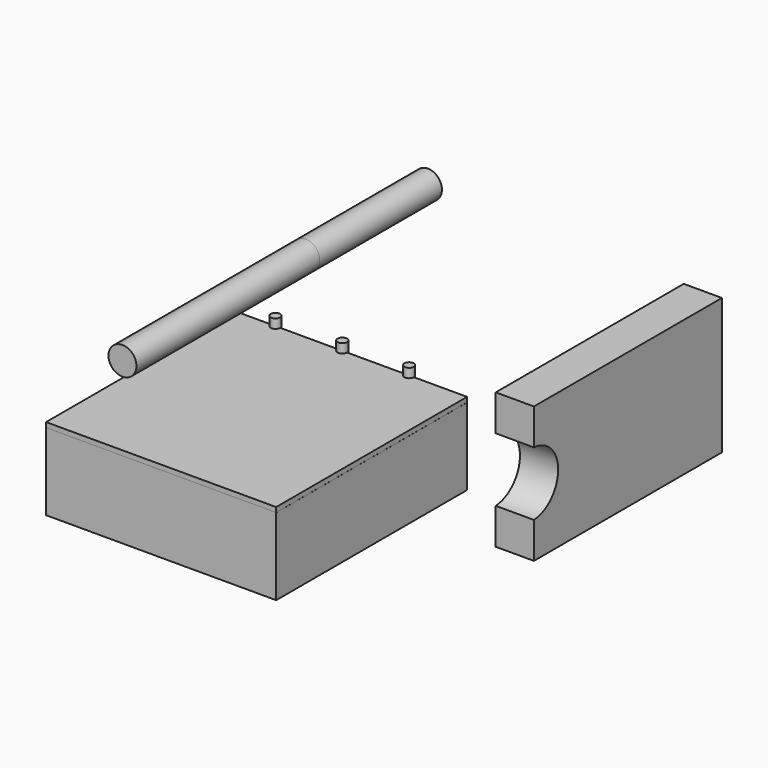
from build123d import *

# Parameters (mm, degrees)
F0_R      = 12.7
F1_DEPTH  = 152.4
F2_W      = 35.1061299443
F2_H      = 23.4181114012
F2_H_2    = 0.2155452967
F3_DEPTH  = 203.2
F4_R      = 37.1999854541
F5_DEPTH  = 609.6
F6_R      = 37.1999854541
F7_DEPTH  = 406.4
F9_DEPTH  = 635
F8_W      = 612.1351420879
F8_H      = 12.8926187754
F10_DEPTH = 635
F12_DEPTH = 101.6


with BuildPart() as f1:
    # F0 (on Top) → F1 (new body)
    with BuildSketch(Plane.XY):
        with Locations((-177.8, 0)):
            Circle(F0_R)
    extrude(amount=F1_DEPTH)


with BuildPart() as f1b:
    # F0 (on Top) → F1, piece 2 (new body)
    with BuildSketch(Plane.XY):
        with Locations((177.8, 0)):
            Circle(F0_R)
    extrude(amount=F1_DEPTH)


with BuildPart() as f1c:
    # F0 (on Top) → F1, piece 3 (new body)
    with BuildSketch(Plane.XY):
        Circle(F0_R)
    extrude(amount=F1_DEPTH)


with BuildPart() as f3:
    # F2 (on Right) → F3 (new body, symmetric)
    with BuildSketch(Plane.YZ):
        Polygon((31.75, 0), (-31.75, 0), (-31.75, -3.81), (-17.0204080641, -3.81), (18.0857218802, -3.81), (31.75, -3.81), align=None)
        with Locations((0.532656908, -15.5190557006)):
            Rectangle(F2_W, F2_H)
        with Locations((0.532656908, -27.3358840495)):
            Rectangle(F2_W, F2_H_2)
        Polygon((-17.0204080641, -27.4436566979), (-17.0204080641, -27.2281114012), (-31.75, -27.2281114012), (-31.75, -31.2200188637), (31.75, -31.2200188637), (31.75, -27.2281114012), (18.0857218802, -27.2281114012), (18.0857218802, -27.4436566979), align=None)
    extrude(amount=F3_DEPTH, both=True)


with BuildPart() as f5:
    # F4 (on Front) → F5 (new body)
    with BuildSketch(Plane.XZ):
        with Locations((-97.2021073103, 320.70723176)):
            Circle(F4_R)
    extrude(amount=F5_DEPTH)


with BuildPart() as f7:
    # F6 (on face) → F7 (new body)
    with BuildSketch(Plane(origin=(0, 0, 0), x_dir=(-1, 0, 0), z_dir=(0, 1, 0))):
        with Locations((97.2021073103, 320.70723176)):
            Circle(F6_R)
    extrude(amount=F7_DEPTH)


with BuildPart() as f9:
    # F8 (on Front) → F9 (new body)
    with BuildSketch(Plane.XZ):
        Polygon((332.1379125118, -90.0954529643), (332.1379125118, 115.1605397463), (332.0188820362, 115.1605397463), (-280.1162600517, 115.1605397463), (-280.1162600517, -90.0954529643), align=None)
    extrude(amount=F9_DEPTH)


with BuildPart() as f10:
    # F8 (on Front) → F10 (new body)
    with BuildSketch(Plane.XZ):
        with Locations((25.9513109922, 121.606849134)):
            Rectangle(F8_W, F8_H)
    extrude(amount=F10_DEPTH)


with BuildPart() as f12:
    # F11 (on Right) → F12 (new body)
    with BuildSketch(Plane.YZ):
        with BuildLine():
            Line((1135.5024576187, -176.7779588699), (510.2651119232, -176.7779588699))
            Line((510.2651119232, -176.7779588699), (510.2651119232, -272.7377929515))
            ThreePointArc((510.2651119232, -272.7377929515), (590.828846816, -357.6501607895), (510.2651119232, -442.5625286275))
            Line((510.2651119232, -442.5625286275), (510.2651119232, -538.522362709))
            Line((510.2651119232, -538.522362709), (1135.5024576187, -538.522362709))
            Line((1135.5024576187, -538.522362709), (1135.5024576187, -176.7779588699))
        make_face()
    extrude(amount=F12_DEPTH)


solid = Compound([f1.part, f1b.part, f1c.part, f3.part, f5.part, f7.part, f9.part, f10.part, f12.part])
